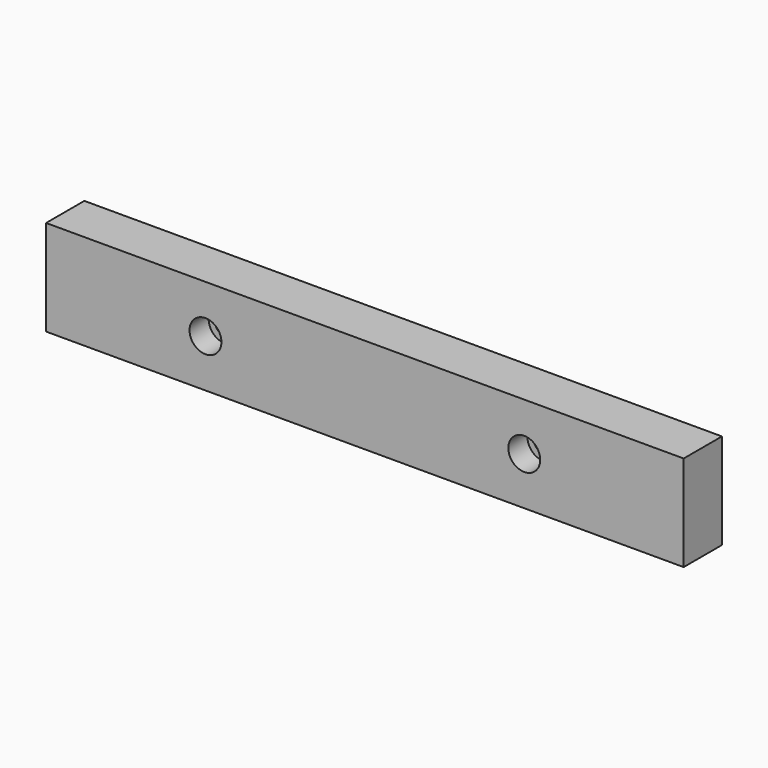
from build123d import *

# Parameters (mm, degrees)
F0_W     = 200
F0_H     = 30
F1_DEPTH = 15
F2_R     = 3
F3_DEPTH = 25
F2_R_2   = 5
F4_DEPTH = 7.5


with BuildPart() as f1:
    # F0 (on Front) → F1 (new body)
    with BuildSketch(Plane.XZ):
        with Locations((54.39228, 15)):
            Rectangle(F0_W, F0_H)
    extrude(amount=F1_DEPTH)

    # F2 (on face) → F3 (cut)
    with BuildSketch(Plane.XZ.offset(15)):
        with Locations((4.39228, 15)):
            Circle(F2_R)
        with Locations((104.39228, 15)):
            Circle(F2_R)
    extrude(amount=-F3_DEPTH, mode=Mode.SUBTRACT)

    # F2 (on face) → F4 (cut)
    with BuildSketch(Plane.XZ.offset(15)):
        with Locations((4.39228, 15)):
            Circle(F2_R_2)
        with Locations((4.39228, 15)):
            Circle(F2_R, mode=Mode.SUBTRACT)
        with Locations((104.39228, 15)):
            Circle(F2_R_2)
        with Locations((104.39228, 15)):
            Circle(F2_R, mode=Mode.SUBTRACT)
    extrude(amount=-F4_DEPTH, mode=Mode.SUBTRACT)


solid = f1.part
